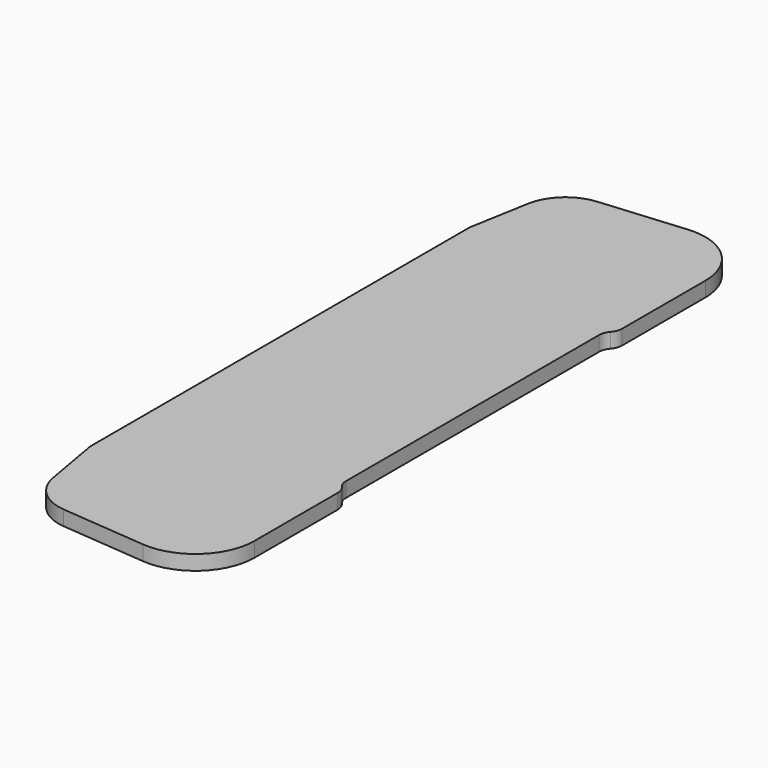
from build123d import *

# Parameters (mm, degrees)
PAD_DEPTH = 1


with BuildPart() as part:
    # Sketch007 → Pad (new body)
    with BuildSketch(Plane.XY):
        with BuildLine():
            ThreePointArc((28.5, 19.015221), (27.202361, 21.964331), (24.151377, 23))
            Line((18.403463, 22.497123), (24.151377, 23))
            ThreePointArc((18.403463, 22.497123), (16.638159, 21.720371), (15.710507, 20.029483))
            Line((15.710507, 20.029483), (15, 16))
            Line((15, 16), (15, 0))
            Line((15, 0), (28, 0))
            Line((28, 0), (28, 10.677124))
            ThreePointArc((28.25, 11.338562), (28.064586, 11.030678), (28, 10.677124))
            ThreePointArc((28.25, 11.338562), (28.435414, 11.646447), (28.5, 12))
            Line((28.5, 19.015221), (28.5, 12))
        make_face()
    pad = extrude(amount=PAD_DEPTH)

    # Mirrored: Pad across Sketch007 H_Axis
    add(pad.mirror(Plane.ZX))


solid = part.part
